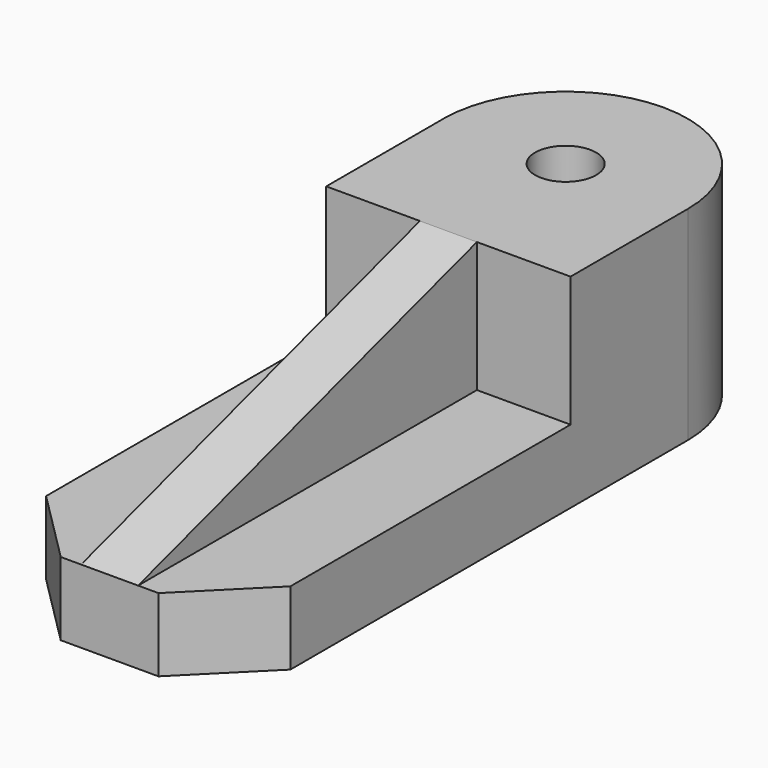
from build123d import *

# Parameters (mm, degrees)
F0_R          = 3.75
F1_DEPTH      = 25
F2_W          = 29.9994934789
F2_H          = 9
F3_DEPTH      = 52
F5_DEPTH      = 25
F8_DEPTH      = 3.5
F8_DEPTH_BACK = 3.5


with BuildPart() as f1:
    # F0 (on Top) → F1 (new body)
    with BuildSketch(Plane.XY):
        with BuildLine():
            Line((0, 18.1232695296), (0, 0))
            Line((0, 0), (29.9994934789, 0))
            Line((29.9994934789, 0), (29.9994934789, 18))
            ThreePointArc((29.9994934789, 18), (15.061128764, 32.9998733692), (0, 18.1232695296))
        make_face()
        with Locations((14.9994934789, 18)):
            Circle(F0_R, mode=Mode.SUBTRACT)
    extrude(amount=F1_DEPTH)

    # F2 (on face) → F3 (join)
    with BuildSketch(Plane.XZ):
        with Locations((14.9997467394, 4.5)):
            Rectangle(F2_W, F2_H)
    extrude(amount=F3_DEPTH)

    # F4 (on face) → F5 (cut)
    with BuildSketch(Plane.XY.offset(9)):
        Polygon((20.9994934789, -52), (29.9994934789, -52), (29.9994934789, -43), align=None)
        Polygon((0, -43), (0, -52), (9, -52), align=None)
    extrude(amount=-F5_DEPTH, mode=Mode.SUBTRACT)

    # F7 (on mid) → F8 (join, two sides)
    with BuildSketch(Plane.YZ.offset(14.9997467394)) as f8_sk:
        Polygon((0, 9), (0, 25), (-52, 9), align=None)
    extrude(amount=F8_DEPTH)
    extrude(f8_sk.sketch, amount=-F8_DEPTH_BACK)


solid = f1.part
